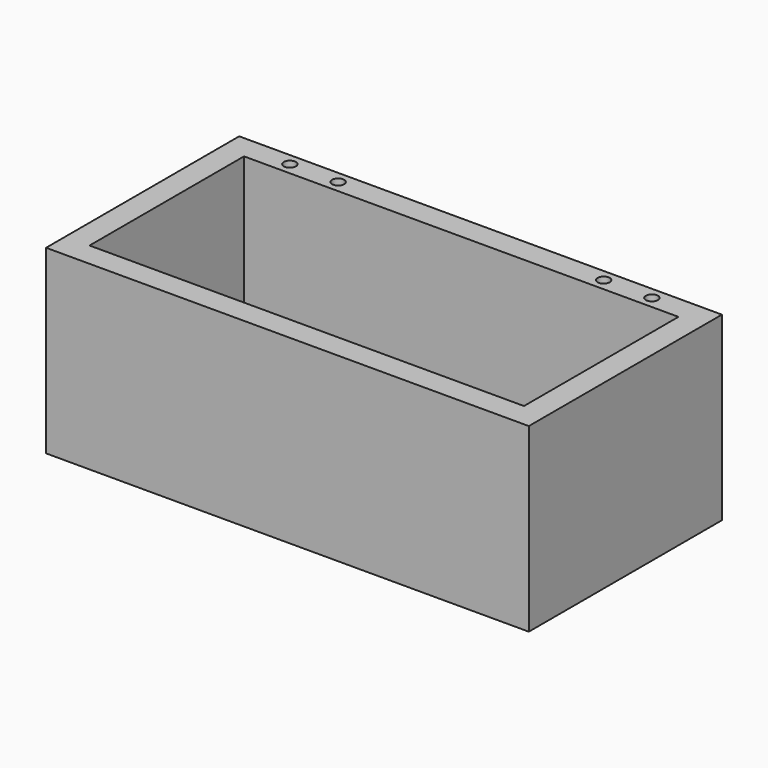
from build123d import *

# Parameters (mm, degrees)
F0_W     = 400
F0_H     = 200
F1_DEPTH = 150
F2_W     = 360
F2_H     = 160
F3_DEPTH = 130
F4_R     = 5
F5_DEPTH = 20
F7_D     = 10
F7_DEPTH = 7
F7_TIP   = 3.0043030951


with BuildPart() as f1:
    # F0 (on Top) → F1 (new body)
    with BuildSketch(Plane.XY):
        Rectangle(F0_W, F0_H)
    extrude(amount=F1_DEPTH)

    # F2 (on face) → F3 (cut)
    with BuildSketch(Plane.XY.offset(150)):
        Rectangle(F2_W, F2_H)
    extrude(amount=-F3_DEPTH, mode=Mode.SUBTRACT)

    # F4 (on face) → F5 (cut)
    with BuildSketch(Plane.XY.offset(150)):
        with Locations((-150, 90)):
            Circle(F4_R)
        with Locations((-110, 90)):
            Circle(F4_R)
        with Locations((110, 90)):
            Circle(F4_R)
        with Locations((150, 90)):
            Circle(F4_R)
    extrude(amount=-F5_DEPTH, mode=Mode.SUBTRACT)

    # F7
    with Locations(Plane.XY.offset(20)):
        with Locations((0, 0)):
            Hole(F7_D / 2, depth=F7_DEPTH)
            with Locations((0, 0, -(F7_DEPTH + F7_TIP / 2))):  # 118° drill point
                Cone(0, F7_D / 2, F7_TIP, mode=Mode.SUBTRACT)


solid = f1.part
